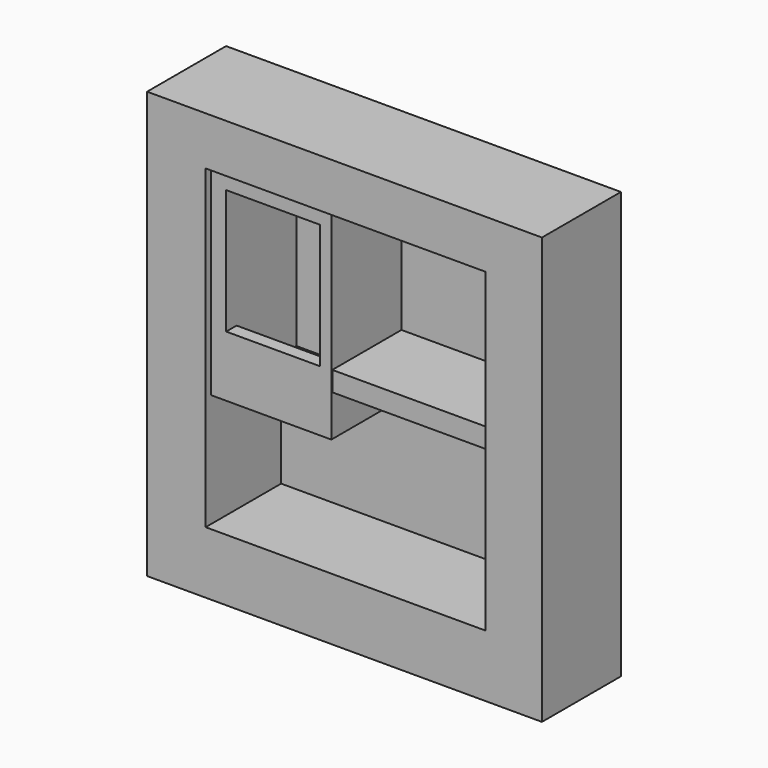
from build123d import *

# Parameters (mm, degrees)
F0_W      = 100
F0_H      = 100
F0_W_2    = 80
F0_H_2    = 80
F1_DEPTH  = 25
F2_DEPTH  = 9.1
F3_DEPTH  = 8
F4_W      = 70.9
F4_H      = 80
F5_DEPTH  = 1.1
F7_W      = 30.4748764277
F7_H      = 51.2500227615
F7_W_2    = 23.7426077947
F7_H_2    = 43.7766229734
F8_DEPTH  = 22.2
F9_W      = 40
F9_H      = 5
F10_DEPTH = 21.9
F11_W     = 23.7426077947
F11_H     = 12.2345564887
F12_DEPTH = 3.3
F14_R     = 2.928713386
F15_DEPTH = 1.3


with BuildPart() as f1:
    # F0 (on Front) → F1 (new body)
    with BuildSketch(Plane.XZ):
        with Locations((4.6970173717, -1.8900542269)):
            Rectangle(F0_W, F0_H)
        with Locations((0.4251235723, -4.1719554365)):
            Rectangle(F0_W_2, F0_H_2, mode=Mode.SUBTRACT)
    extrude(amount=F1_DEPTH)

    # F2 (add): a face of the model
    f2_faces = [f1.faces().sort_by_distance(p)[0] for p in [
        (-39.5748764277, -12.5, -4.1719554365),
    ]]
    extrude(f2_faces, amount=F2_DEPTH)

    # F3 (add): a face of the model
    f3_faces = [f1.faces().sort_by_distance(p)[0] for p in [
        (4.6970173717, -12.5, -51.8900542269),
    ]]
    extrude(f3_faces, amount=F3_DEPTH)


with BuildPart() as f5:
    # F4 (on face) → F5 (new body)
    with BuildSketch(Plane(origin=(0, 0, 0), x_dir=(-1, 0, 0), z_dir=(0, 1, 0))):
        with Locations((-4.9751235723, -4.1719554365)):
            Rectangle(F4_W, F4_H)
    extrude(amount=-F5_DEPTH)


with BuildPart() as f8:
    # F7 (on face) → F8 (new body)
    with BuildSketch(Plane.XZ.offset(1.1)):
        with Locations((-15.2374382138, 10.2030331828)):
            Rectangle(F7_W, F7_H)
        with Locations((-14.7596453317, 9.653754998)):
            Rectangle(F7_W_2, F7_H_2, mode=Mode.SUBTRACT)
    extrude(amount=F8_DEPTH)

    # F11 (on face) → F12 (join)
    with BuildSketch(Plane.XZ.offset(23.3)):
        with Locations((-14.7596453317, -6.1172782443)):
            Rectangle(F11_W, F11_H)
    extrude(amount=-F12_DEPTH)

    # F14 (on face) → F15 (join)
    with BuildSketch(Plane.XZ.offset(23.3)):
        with Locations((-15.2722168714, -7.7124517411)):
            Circle(F14_R)
    extrude(amount=-F15_DEPTH)


with BuildPart() as f10:
    # F9 (on face) → F10 (new body)
    with BuildSketch(Plane.XZ.offset(1.1)):
        with Locations((20, -2.5)):
            Rectangle(F9_W, F9_H)
    extrude(amount=F10_DEPTH)


solid = Compound([f1.part, f5.part, f8.part, f10.part])
